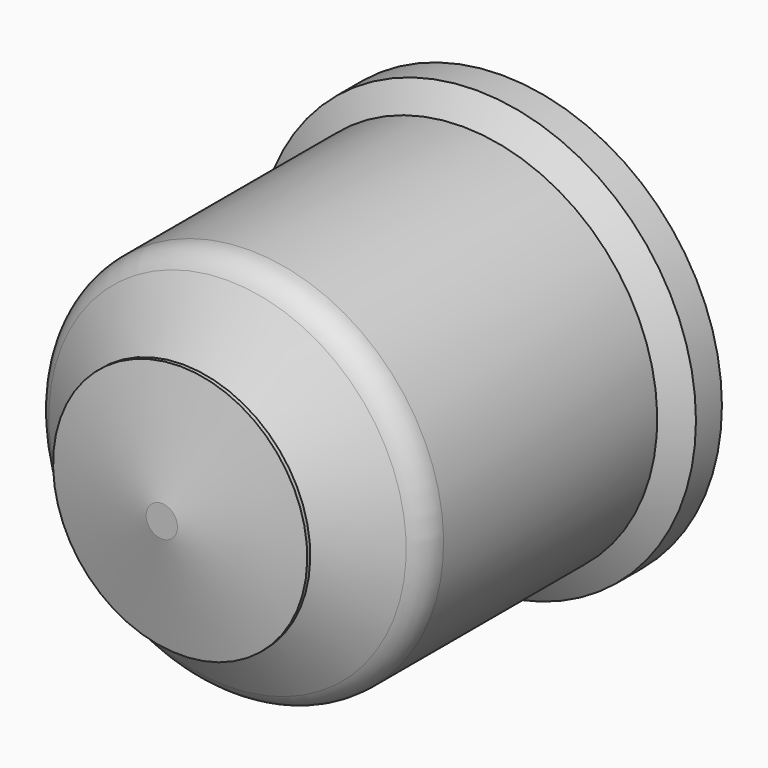
from build123d import *


with BuildPart() as f1:
    # F0 (on Right) → F1 (revolve)
    with BuildSketch(Plane.YZ):
        with BuildLine():
            Line((3.450124, 44.45), (0, 39.37))
            Line((0, 39.37), (-54.07717, 39.37))
            ThreePointArc((-54.07717, 39.37), (-57.25217, 38.519261), (-59.576432, 36.195))
            Line((-59.576432, 36.195), (-69.85, 18.400658))
            Line((-69.85, 18.400658), (-69.85, 11))
            Line((-69.85, 11), (-62.85, 11))
            Line((-62.85, 11), (-62.85, 4.7625))
            Line((-62.85, 4.7625), (-51.751848, 4.7625))
            Line((-51.751848, 4.7625), (-46.982517, 12.7))
            Line((-46.982517, 12.7), (10.021787, 12.7))
            Line((10.021787, 12.7), (10.021787, 44.45))
            Line((10.021787, 44.45), (3.450124, 44.45))
        make_face()
    revolve(axis=Axis((0, -61.691489, 0), (0, -1, 0)))


with BuildPart() as f4:
    # F2 (on Right) → F4 (revolve)
    with BuildSketch(Plane.YZ):
        with BuildLine():
            Line((-76.2, 0), (0, 0))
            Line((0, 0), (12.7, 0))
            Line((12.7, 0), (12.7, 3.175))
            Line((12.7, 3.175), (-69.270106, 3.175))
            ThreePointArc((-69.270106, 3.175), (-70.347737, 3.621369), (-70.794106, 4.699))
            Line((-70.794106, 4.699), (-70.794106, 25.737623))
            Line((-70.794106, 25.737623), (-71.556106, 25.737623))
            Line((-71.556106, 25.737623), (-76.2, 3.175))
            Line((-76.2, 3.175), (-76.2, 0))
        make_face()
    revolve(axis=Axis((0, -81.0768, 0), (0, -1, 0)))


solid = Compound([f1.part, f4.part])
